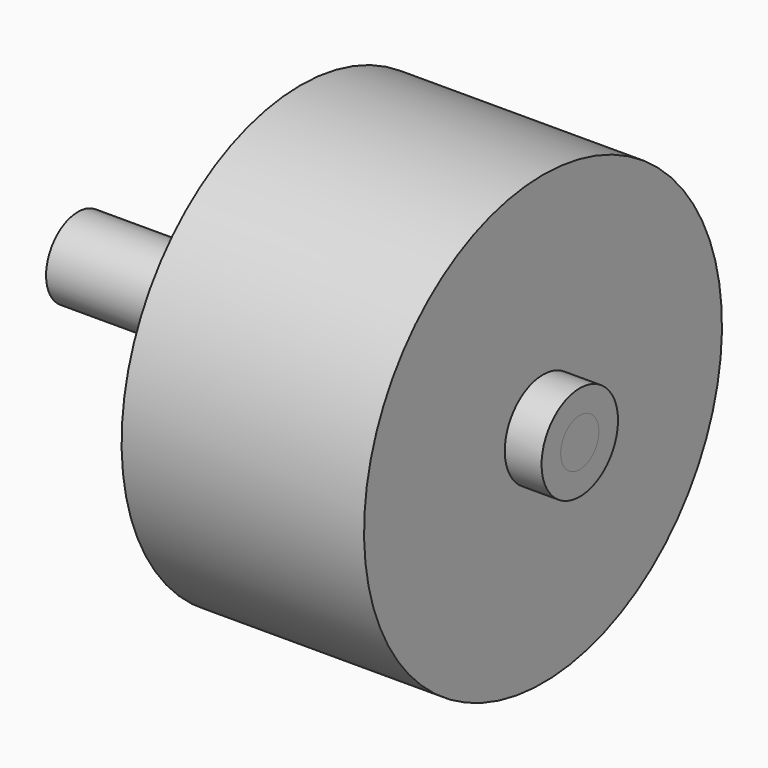
from build123d import *

# Parameters (mm, degrees)
F1_W = 2.31
F1_H = 1.5
F2_W = 19.01
F2_H = 1.5
F3_W = 12.5
F3_H = 2.5


with BuildPart() as f4:
    # F1 (on Front) → F4 (revolve)
    with BuildSketch(Plane.XZ):
        with Locations((1.155, 2.25)):
            Rectangle(F1_W, F1_H)
        Polygon((0, 14.05), (-15.227757, 14.05), (-16.7, 11.5), (-16.7, 1.5), (0, 1.5), (0, 3), align=None)
    revolve(axis=Axis((-13.45, 0, 0), (-1, 0, 0)))


with BuildPart() as f5:
    # F2 (on Front) → F5 (revolve)
    with BuildSketch(Plane.XZ):
        with Locations((-7.195, 0.75)):
            Rectangle(F2_W, F2_H)
    revolve(axis=Axis((-13.45, 0, 0), (-1, 0, 0)))


with BuildPart() as f6:
    # F3 (on Front) → F6 (revolve)
    with BuildSketch(Plane.XZ):
        with Locations((-22.96, 1.25)):
            Rectangle(F3_W, F3_H)
        Polygon((-16.7, 11.5), (-16.71, 11.5), (-16.71, 2.5), (-16.71, 0), (-16.7, 0), align=None)
    revolve(axis=Axis((-13.45, 0, 0), (-1, 0, 0)))


solid = Compound([f4.part, f5.part, f6.part])
